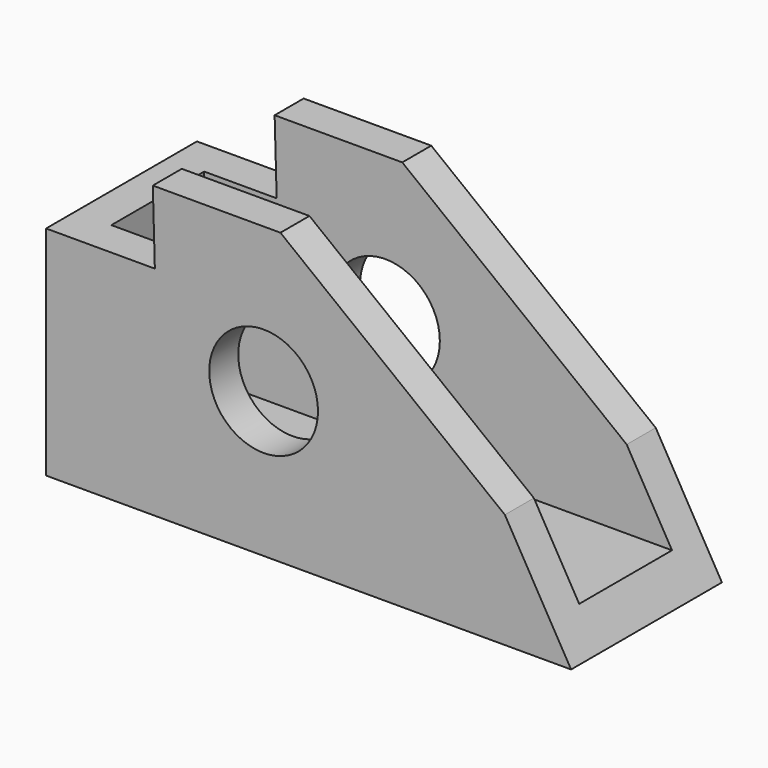
from build123d import *

# Parameters (mm, degrees)
F0_R     = 9.525
F1_DEPTH = 33.02
F2_W     = 12.3416540065
F2_H     = 20.32
F2_W_2   = 22.352
F2_W_3   = 50.9043459935
F3_DEPTH = 44.45


with BuildPart() as f1:
    # F0 (on Front) → F1 (new body)
    with BuildSketch(Plane.XZ):
        Polygon((2.9436540065, 25.3949434087), (-19.4083459935, 25.3949434087), (-19.05, 12.7), (-38.1, 12.7), (-38.1, -25.4), (53.848, -25.4), (42.2530133757, -5.3168940537), align=None)
        Circle(F0_R, mode=Mode.SUBTRACT)
    extrude(amount=F1_DEPTH)

    # F2 (on face) → F3 (cut)
    with BuildSketch(Plane.XY.offset(25.3949434087)):
        with Locations((-25.5791729967, -16.51)):
            Rectangle(F2_W, F2_H)
        with Locations((-8.2323459935, -16.51)):
            Rectangle(F2_W_2, F2_H)
        with Locations((28.3958270033, -16.51)):
            Rectangle(F2_W_3, F2_H)
        with Locations((28.3958270033, -16.51)):
            Rectangle(F2_W_3, F2_H)
    extrude(amount=-F3_DEPTH, mode=Mode.SUBTRACT)


solid = f1.part
